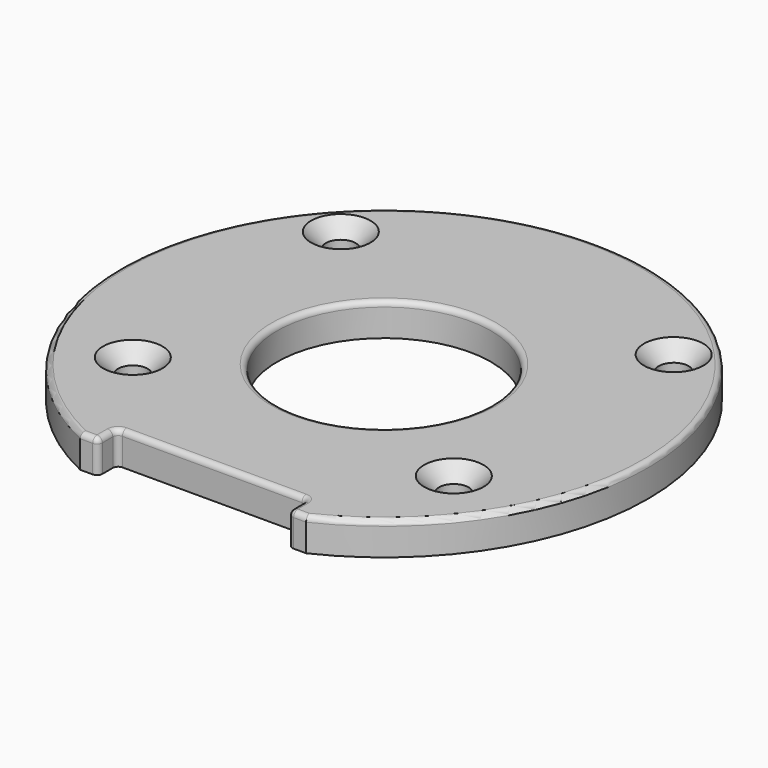
from build123d import *

# Parameters (mm, degrees)
SKETCH_R         = 18
PAD_DEPTH        = 5.5
HOLE_D           = 5
HOLE_CSINK_D     = 10
HOLE_CSINK_ANGLE = 90
FILLET_R         = 0.9


with BuildPart() as part:
    # Sketch → Pad (new body)
    with BuildSketch(Plane.XY):
        with BuildLine():
            ThreePointArc((19, -40.129291), (0, 44.4), (-19, -40.129291))
            Line((-19, -40.129291), (-16, -40.129291))
            Line((-16, -40.129291), (-16, -36.129291))
            Line((-16, -36.129291), (16, -36.129291))
            Line((16, -36.129291), (16, -40.129291))
            Line((16, -40.129291), (19, -40.129291))
        make_face()
        Circle(SKETCH_R, mode=Mode.SUBTRACT)
    extrude(amount=PAD_DEPTH)

    # Hole (through all)
    with Locations(Plane.XY.offset(5.5)):
        with Locations((28, 25.911822), (-28, 25.911822), (-27, -19.077066), (27, -19.077066)):
            CounterSinkHole(HOLE_D / 2, HOLE_CSINK_D / 2, counter_sink_angle=HOLE_CSINK_ANGLE)

    # Fillet
    fillet_edges = [part.edges().sort_by_distance(p)[0] for p in [
        (0, 44.4, 5.5),
        (-18, 0, 5.5),
        (-17.5, -40.129291, 5.5),
        (-16, -38.129291, 5.5),
        (0, -36.129291, 5.5),
        (16, -38.129291, 5.5),
        (17.5, -40.129291, 5.5),
        (-16, -40.129291, 2.75),
        (16, -40.129291, 2.75),
        (-16, -36.129291, 2.75),
        (16, -36.129291, 2.75),
    ]]
    fillet(fillet_edges, radius=FILLET_R)


solid = part.part
